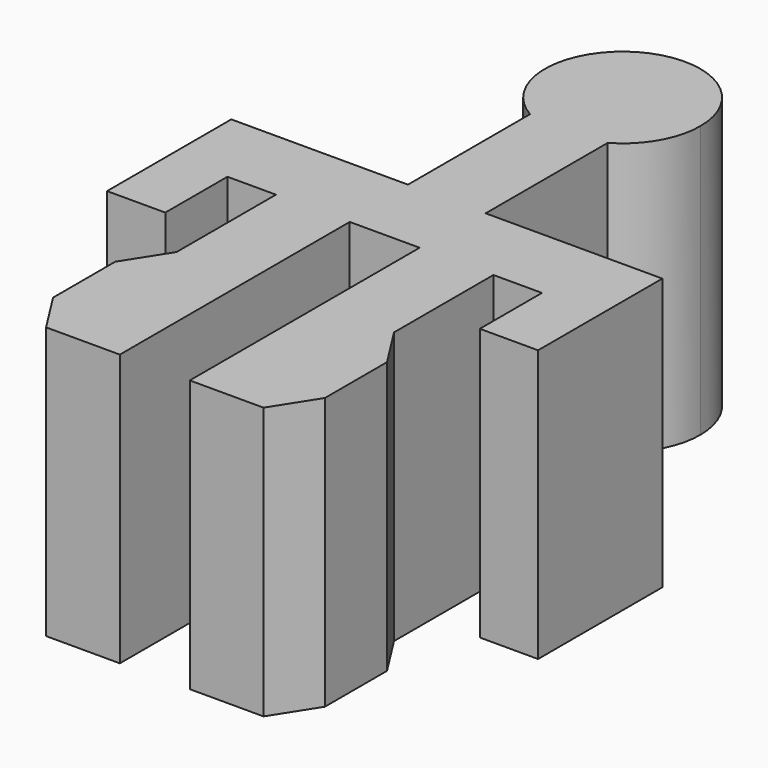
from build123d import *

# Parameters (mm, degrees)
F1_DEPTH = 7


with BuildPart() as f1:
    # F0 (on Top) → F1 (new body)
    with BuildSketch(Plane.XY):
        Polygon((-0.9, -7.4), (-0.9, 0), (-2.8, 0), (-2.8, -3.2000038773), (-2.8, -7.4), align=None)
        Polygon((-2.8, 0), (-0.9, 0), (0.9, 0), (2.8, 0), (4.05, 0), (4.05, -2), (5.55, -2), (5.55, 2), (1, 2), (0, 2), (-1, 2), (-5.55, 2), (-5.55, -2), (-4.05, -2), (-4.05, 0), align=None)
        Polygon((2.8, 0), (0.9, 0), (0.9, -7.4), (2.8, -7.4), (2.8, -3.2000038773), align=None)
        Polygon((-2.8, -7.4), (-2.8, -3.2000038773), (-3.5, -4.3000019386), (-3.5, -6.3000019386), align=None)
        Polygon((2.8, -3.2000038773), (2.8, -7.4), (3.5, -6.3000019386), (3.5, -4.3000019386), align=None)
        with BuildLine():
            Line((-1, 5.9279491924), (-1, 2))
            Line((-1, 2), (0, 2))
            Line((0, 2), (1, 2))
            Line((1, 2), (1, 5.9279491924))
            ThreePointArc((1, 5.9279491924), (0, 5.66), (-1, 5.9279491924))
        make_face()
        with BuildLine():
            ThreePointArc((2, 7.66), (-1, 9.3920508076), (-1, 5.9279491924))
            Line((-1, 5.9279491924), (-1, 7))
            Line((-1, 7), (1, 7))
            Line((1, 7), (1, 5.9279491924))
            ThreePointArc((1, 5.9279491924), (1.7320508076, 6.66), (2, 7.66))
        make_face()
        with BuildLine():
            Line((-1, 7), (-1, 5.9279491924))
            ThreePointArc((-1, 5.9279491924), (0, 5.66), (1, 5.9279491924))
            Line((1, 5.9279491924), (1, 7))
            Line((1, 7), (-1, 7))
        make_face()
    extrude(amount=F1_DEPTH)


solid = f1.part
